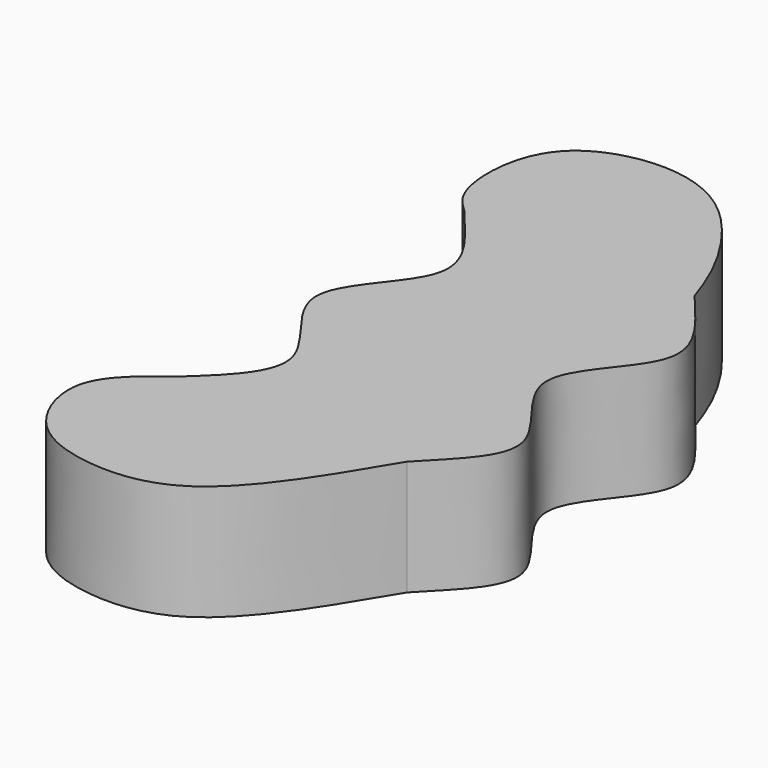
from build123d import *

# Parameters (mm, degrees)
F1_DEPTH = 25.4


with BuildPart() as f1:
    # F0 (on Top) → F1 (new body)
    with BuildSketch(Plane.XY):
        with BuildLine():
            add(Edge.make_bspline(
                [(-26.971147434, 55.8800016826), (-28.4118237038, 57.2057987693), (-31.8414408399, 60.3619390508), (-33.4284961718, 72.6729251173), (-28.5370551377, 86.1943848299), (-11.4454206947, 91.8502111658), (6.7935046375, 86.7549347276), (19.7268918622, 67.80971766), (22.5970260241, 59.4625179082), (23.828852566, 55.8800016826)],
                knots=[0, 0, 0, 0, 0.0952095432, 0.2266520853, 0.366884781, 0.5211133913, 0.6843917992, 0.8645448134, 1, 1, 1, 1], degree=3))
            add(Edge.make_bspline(
                [(-26.971147434, 55.8800016826), (-21.4840705815, 49.0432811786), (-7.507032308, 35.5224056546), (-36.7616326866, 15.2922732881), (-7.9463735787, -6.0504765105), (-20.8948642411, -17.8048615893), (-26.971147434, -23.4130658209)],
                knots=[0, 0, 0, 0, 0.2524079408, 0.5054031103, 0.7611311626, 1, 1, 1, 1], degree=3))
            add(Edge.make_bspline(
                [(23.828852566, -23.4130658209), (16.3457094552, -35.9646467252), (3.4873306983, -57.5321857765), (-19.6839624813, -59.1370071795), (-35.2282671553, -53.0054491996), (-41.5137668249, -34.365735258), (-31.8658859482, -27.0995030084), (-26.971147434, -23.4130658209)],
                knots=[0, 0, 0, 0, 0.2746157443, 0.4718756813, 0.6457859044, 0.8202936585, 1, 1, 1, 1], degree=3))
            add(Edge.make_bspline(
                [(23.828852566, 55.8800016826), (29.2195184587, 49.0971564371), (43.3697718517, 35.4946786487), (13.9135049334, 15.3084967421), (43.2682960133, -6.0865440825), (29.080109389, -17.7361972786), (23.828852566, -23.4130658209)],
                knots=[0, 0, 0, 0, 0.2524079408, 0.5054031103, 0.7611311626, 1, 1, 1, 1], degree=3))
        make_face()
    extrude(amount=F1_DEPTH)


solid = f1.part
